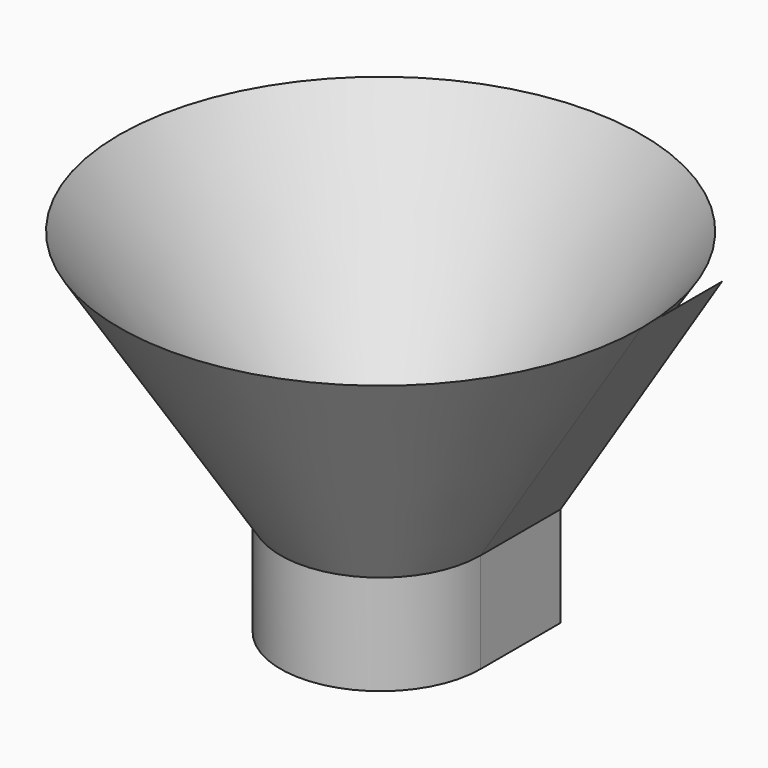
from build123d import *

# Parameters (mm, degrees)
F1_DEPTH = 25.4


with BuildPart() as f1:
    # F0 (on Front) → F1 (new body)
    with BuildSketch(Plane.XZ):
        Polygon((-41.593101, 0), (-60.650304, 0), (-60.650304, -25.4), (-35.250304, -25.4), (-35.250304, 0), (5.730615, 64.241764), align=None)
    extrude(amount=F1_DEPTH)

    # F1_face (on face) → F2 (revolve)
    with BuildSketch(Plane(origin=(-42.131222, -25.4, -4.512613), x_dir=(1, 0, 0), z_dir=(0, -1, 0))):
        Polygon((6.880918, 4.512613), (47.861837, 68.754377), (0.538121, 4.512613), (-18.519082, 4.512613), (-18.519082, -20.887387), (6.880918, -20.887387), align=None)
    revolve(axis=Axis((-60.650304, -25.4, -12.7), (0, 0, -1)))


solid = f1.part
